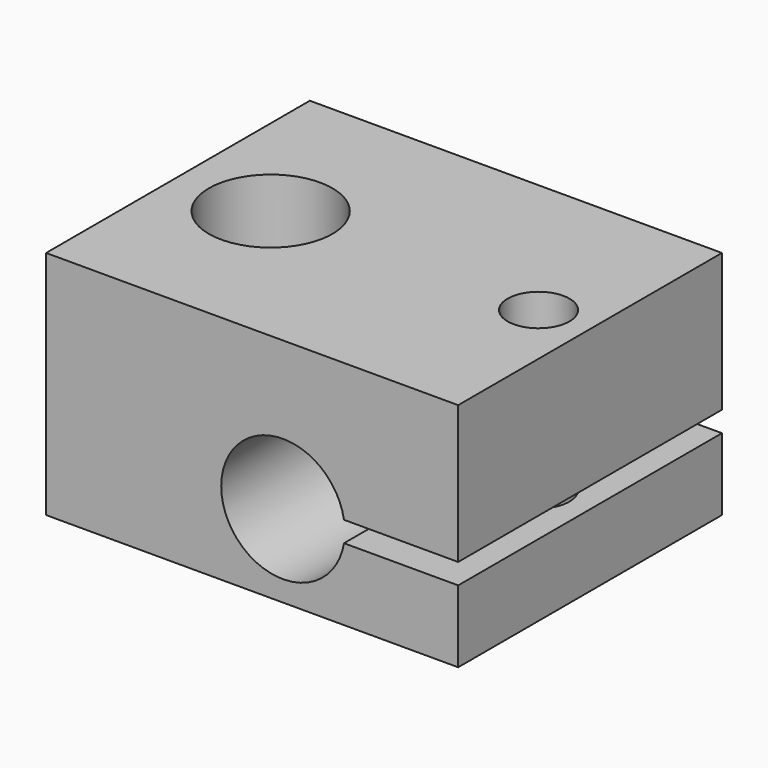
from build123d import *

# Parameters (mm, degrees)
F0_W      = 20
F0_H      = 16
F1_DEPTH  = 11.2
F3_D      = 6
F4_D      = 3
F6_D      = 6
F7_D      = 3
F7_DEPTH  = 4
F7_TIP    = 0.9012909285
F8_D      = 2.4
F8_DEPTH  = 4
F8_TIP    = 0.7210327428
F9_W      = 12
F9_H      = 1
F10_DEPTH = 25


with BuildPart() as f1:
    # F0 (on Top) → F1 (new body)
    with BuildSketch(Plane.XY):
        Rectangle(F0_W, F0_H)
    extrude(amount=F1_DEPTH)

    # F3 (through all)
    with Locations(Plane.XY.offset(11.2)):
        with Locations((-5.5, 0)):
            Hole(F3_D / 2)

    # F4 (through all)
    with Locations(Plane.XY.offset(11.2)):
        with Locations((7.5, 0)):
            Hole(F4_D / 2)

    # F6 (through all)
    with Locations(Plane(origin=(0, 8, 0), x_dir=(-1, 0, 0), z_dir=(0, 1, 0))):
        with Locations((-1.5, 4)):
            Hole(F6_D / 2)

    # F7
    with Locations(Plane(origin=(0, 8, 0), x_dir=(-1, 0, 0), z_dir=(0, 1, 0))):
        with Locations((5.5, 5.5)):
            Hole(F7_D / 2, depth=F7_DEPTH)
            with Locations((0, 0, -(F7_DEPTH + F7_TIP / 2))):  # 118° drill point
                Cone(0, F7_D / 2, F7_TIP, mode=Mode.SUBTRACT)

    # F8
    with Locations(Plane(origin=(0, 8, 0), x_dir=(-1, 0, 0), z_dir=(0, 1, 0))):
        with Locations((7, 2.5)):
            Hole(F8_D / 2, depth=F8_DEPTH)
            with Locations((0, 0, -(F8_DEPTH + F8_TIP / 2))):  # 118° drill point
                Cone(0, F8_D / 2, F8_TIP, mode=Mode.SUBTRACT)

    # F9 (on face) → F10 (cut)
    with BuildSketch(Plane(origin=(0, 8, 0), x_dir=(-1, 0, 0), z_dir=(0, 1, 0))):
        with Locations((-10, 4)):
            Rectangle(F9_W, F9_H)
    extrude(amount=-F10_DEPTH, mode=Mode.SUBTRACT)


solid = f1.part
